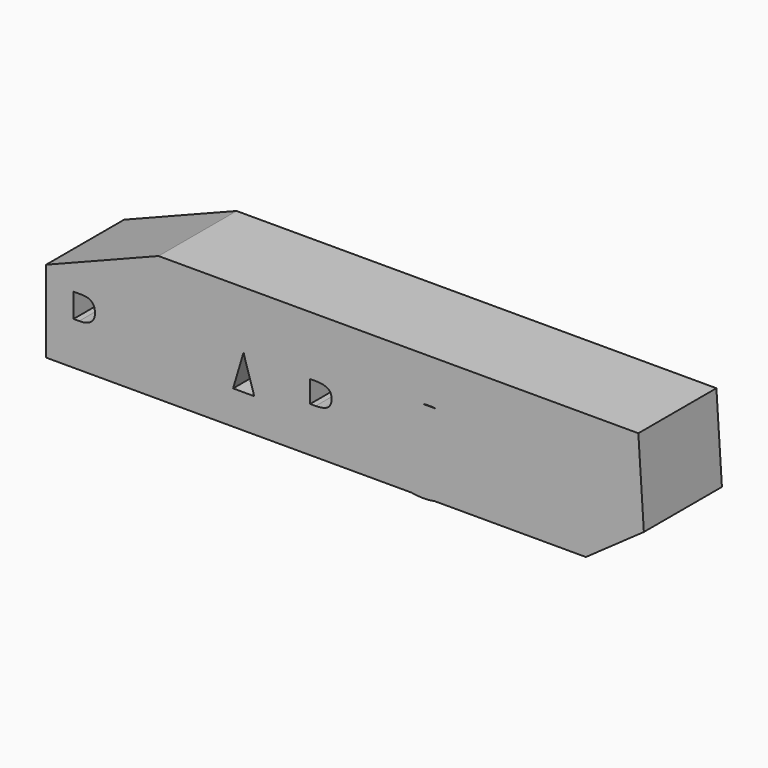
from build123d import *

# Parameters (mm, degrees)
F0_W     = 8.3609821595
F0_H     = 9.1143487112
F0_W_2   = 4.4786023839
F0_H_2   = 21.1173728506
F1_DEPTH = 25.4


with BuildPart() as f1:
    # F0 (on Front) → F1 (new body)
    with BuildSketch(Plane.XZ):
        with BuildLine():
            Line((-19.2826222628, 18.131762743), (-37.9903614521, 18.131762743))
            Line((-37.9903614521, 18.131762743), (-37.9903614521, -3.1658634543))
            Line((-37.9903614521, -3.1658634543), (-35.3327800581, -3.1658634543))
            Line((-35.3327800581, -3.1658634543), (-35.3327800581, 17.9515093963))
            Line((-35.3327800581, 17.9515093963), (-28.5894561384, 17.9515093963))
            add(Edge.make_bspline(
                [(-28.5894561384, 17.9515093963), (-24.7440514084, 17.9515093963), (-22.745088012, 16.296876111)],
                knots=[0, 0, 0, 1, 1, 1], degree=2))
            add(Edge.make_bspline(
                [(-22.745088012, 16.296876111), (-20.7461246157, 14.6422428257), (-20.7461246157, 11.3653294199)],
                knots=[0, 0, 0, 1, 1, 1], degree=2))
            add(Edge.make_bspline(
                [(-20.7461246157, 11.3653294199), (-20.7461246157, 7.9543814742), (-22.8768116115, 6.1495370667)],
                knots=[0, 0, 0, 1, 1, 1], degree=2))
            add(Edge.make_bspline(
                [(-22.8768116115, 6.1495370667), (-25.0074986074, 4.3446926591), (-28.9360971898, 4.3446926591)],
                knots=[0, 0, 0, 1, 1, 1], degree=2))
            Line((-28.9360971898, 4.3446926591), (-30.8541776742, 4.3446926591))
            Line((-30.8541776742, 4.3446926591), (-30.8541776742, -3.1658634543))
            Line((-30.8541776742, -3.1658634543), (-19.2826222628, -3.1658634543))
            Line((-19.2826222628, -3.1658634543), (-19.2826222628, 18.131762743))
        make_face()
        with BuildLine():
            Line((-8.7019680068, 29.6439938247), (-37.9903614521, 18.131762743))
            Line((-37.9903614521, 18.131762743), (-19.2826222628, 18.131762743))
            Line((-19.2826222628, 18.131762743), (2.0150034688, 18.131762743))
            Line((2.0150034688, 18.131762743), (24.7516594827, 18.131762743))
            Line((24.7516594827, 18.131762743), (44.3224497139, 18.131762743))
            Line((44.3224497139, 18.131762743), (52.0932041109, 18.131762743))
            Line((52.0932041109, 18.131762743), (59.9767177003, 18.131762743))
            add(Edge.make_bspline(
                [(59.9767177003, 18.131762743), (60.7857124915, 18.2519316408), (61.7036049274, 18.2519316408)],
                knots=[0.7260728655, 0.7260728655, 0.7260728655, 1, 1, 1], degree=2))
            add(Edge.make_bspline(
                [(61.7036049274, 18.2519316408), (62.6190151517, 18.2519316408), (63.4879314572, 18.131762743)],
                knots=[0, 0, 0, 0.5563486403, 0.5563486403, 0.5563486403], degree=2))
            Line((63.4879314572, 18.131762743), (69.9371621013, 18.131762743))
            Line((69.9371621013, 18.131762743), (86.3420888782, 18.131762743))
            Line((86.3420888782, 18.131762743), (102.5425426617, 18.131762743))
            Line((102.5425426617, 18.131762743), (116.2057295442, 29.6439938247))
            Line((116.2057295442, 29.6439938247), (84.2592939734, 29.6439938247))
            Line((84.2592939734, 29.6439938247), (-8.7019680068, 29.6439938247))
        make_face()
        Polygon((2.0150034688, 18.131762743), (-19.2826222628, 18.131762743), (-19.2826222628, -3.1658634543), (-16.7574415844, -3.1658634543), (-16.7574415844, 17.9515093963), (-12.2788392004, 17.9515093963), (-12.2788392004, 9.6737210891), (-3.9178570409, 9.6737210891), (-3.9178570409, 17.9515093963), (0.546879701, 17.9515093963), (0.546879701, -3.1658634543), (2.0150034688, -3.1658634543), align=None)
        with BuildLine():
            Line((-35.3327800581, 17.9515093963), (-35.3327800581, -3.1658634543))
            Line((-35.3327800581, -3.1658634543), (-30.8541776742, -3.1658634543))
            Line((-30.8541776742, -3.1658634543), (-30.8541776742, 4.3446926591))
            Line((-30.8541776742, 4.3446926591), (-28.9360971898, 4.3446926591))
            add(Edge.make_bspline(
                [(-22.8768116115, 6.1495370667), (-25.0074986074, 4.3446926591), (-28.9360971898, 4.3446926591)],
                knots=[0, 0, 0, 1, 1, 1], degree=2))
            add(Edge.make_bspline(
                [(-20.7461246157, 11.3653294199), (-20.7461246157, 7.9543814742), (-22.8768116115, 6.1495370667)],
                knots=[0, 0, 0, 1, 1, 1], degree=2))
            add(Edge.make_bspline(
                [(-22.745088012, 16.296876111), (-20.7461246157, 14.6422428257), (-20.7461246157, 11.3653294199)],
                knots=[0, 0, 0, 1, 1, 1], degree=2))
            add(Edge.make_bspline(
                [(-28.5894561384, 17.9515093963), (-24.7440514084, 17.9515093963), (-22.745088012, 16.296876111)],
                knots=[0, 0, 0, 1, 1, 1], degree=2))
            Line((-28.5894561384, 17.9515093963), (-35.3327800581, 17.9515093963))
        make_face()
        with BuildLine():
            Line((-29.3797977356, 8.0144659231), (-30.8541776742, 8.0144659231))
            Line((-30.8541776742, 8.0144659231), (-30.8541776742, 14.2817361322))
            Line((-30.8541776742, 14.2817361322), (-28.8205501727, 14.2817361322))
            add(Edge.make_bspline(
                [(-26.1259937332, 13.5306805209), (-26.9856635407, 14.2817361322), (-28.8205501727, 14.2817361322)],
                knots=[0, 0, 0, 1, 1, 1], degree=2))
            add(Edge.make_bspline(
                [(-25.2663239258, 11.2035635959), (-25.2663239258, 12.7796249096), (-26.1259937332, 13.5306805209)],
                knots=[0, 0, 0, 1, 1, 1], degree=2))
            add(Edge.make_bspline(
                [(-26.2923814379, 8.8302278641), (-25.2663239258, 9.645989805), (-25.2663239258, 11.2035635959)],
                knots=[0, 0, 0, 1, 1, 1], degree=2))
            add(Edge.make_bspline(
                [(-29.3797977356, 8.0144659231), (-27.31843895, 8.0144659231), (-26.2923814379, 8.8302278641)],
                knots=[0, 0, 0, 1, 1, 1], degree=2))
        make_face(mode=Mode.SUBTRACT)
        Polygon((24.7516594827, 18.131762743), (2.0150034688, 18.131762743), (2.0150034688, -3.1658634543), (3.218326737, -3.1658634543), (10.6734202822, 18.0393251293), (16.1457270135, 18.0393251293), (23.6285518428, -3.1658634543), (24.7516594827, -3.1658634543), align=None)
        Polygon((117.6447570324, 7.4829496443), (116.2057295442, 29.6439938247), (102.5425426617, 18.131762743), (102.5425426617, -3.1658634543), align=None)
        with BuildLine():
            Line((44.3224497139, 18.131762743), (24.7516594827, 18.131762743))
            Line((24.7516594827, 18.131762743), (24.7516594827, -3.1658634543))
            Line((24.7516594827, -3.1658634543), (26.2861332368, -3.1658634543))
            Line((26.2861332368, -3.1658634543), (26.2861332368, 17.9515093963))
            Line((26.2861332368, 17.9515093963), (32.4378564288, 17.9515093963))
            add(Edge.make_bspline(
                [(32.4378564288, 17.9515093963), (36.7454492274, 17.9515093963), (38.8091189533, 16.384691844)],
                knots=[0, 0, 0, 1, 1, 1], degree=2))
            add(Edge.make_bspline(
                [(38.8091189533, 16.384691844), (40.8727886792, 14.8178742917), (40.8727886792, 11.6241547383)],
                knots=[0, 0, 0, 1, 1, 1], degree=2))
            add(Edge.make_bspline(
                [(40.8727886792, 11.6241547383), (40.8727886792, 9.7615368221), (39.8490421075, 8.310266287)],
                knots=[0, 0, 0, 1, 1, 1], degree=2))
            add(Edge.make_bspline(
                [(39.8490421075, 8.310266287), (38.8252955357, 6.8589957518), (36.9441900968, 6.0363009899)],
                knots=[0, 0, 0, 1, 1, 1], degree=2))
            add(Edge.make_bspline(
                [(36.9441900968, 6.0363009899), (41.7139709639, -1.086017146), (43.1559977377, -3.1658634543)],
                knots=[0, 0, 0, 1, 1, 1], degree=2))
            Line((43.1559977377, -3.1658634543), (44.3224497139, -3.1658634543))
            Line((44.3224497139, -3.1658634543), (44.3224497139, 18.131762743))
        make_face()
        Polygon((-16.7574415844, 17.9515093963), (-16.7574415844, -3.1658634543), (-12.2788392004, -3.1658634543), (-12.2788392004, 5.9484852568), (-3.9178570409, 5.9484852568), (-3.9178570409, -3.1658634543), (0.546879701, -3.1658634543), (0.546879701, 17.9515093963), (-3.9178570409, 17.9515093963), (-3.9178570409, 9.6737210891), (-12.2788392004, 9.6737210891), (-12.2788392004, 17.9515093963), align=None)
        Polygon((102.5425426617, -3.1658634543), (102.5425426617, 18.131762743), (86.3420888782, 18.131762743), (86.3420888782, -3.1658634543), (88.4642940946, -3.1658634543), (88.4642940946, 17.9515093963), (100.6244621773, 17.9515093963), (100.6244621773, 14.2817361322), (92.9428964785, 14.2817361322), (92.9428964785, 9.645989805), (100.0929458985, 9.645989805), (100.0929458985, 5.976216541), (92.9428964785, 5.976216541), (92.9428964785, 0.5316410938), (100.6244621773, 0.5316410938), (100.6244621773, -3.1658634543), align=None)
        Polygon((52.0932041109, 18.131762743), (44.3224497139, 18.131762743), (44.3224497139, -3.1658634543), (45.8135791317, -3.1658634543), (45.8135791317, 17.9515093963), (50.2921815156, 17.9515093963), (50.2921815156, -3.1658634543), (52.0932041109, -3.1658634543), align=None)
        Polygon((10.6734202822, 18.0393251293), (3.218326737, -3.1658634543), (8.0435701724, -3.1658634543), (9.5734126791, 1.8627427311), (17.2734659007, 1.8627427311), (18.8033084075, -3.1658634543), (23.6285518428, -3.1658634543), (16.1457270135, 18.0393251293), align=None)
        with BuildLine():
            add(Edge.make_bspline(
                [(16.2011895817, 5.6157098475), (14.0797463472, 12.4468495002), (13.8116772675, 13.3434943531)],
                knots=[0, 0, 0, 1, 1, 1], degree=2))
            Line((16.2011895817, 5.6157098475), (10.7011515663, 5.6157098475))
            add(Edge.make_bspline(
                [(13.4280611706, 14.7577898428), (12.95200746, 12.9090375687), (10.7011515663, 5.6157098475)],
                knots=[0, 0, 0, 1, 1, 1], degree=2))
            add(Edge.make_bspline(
                [(13.8116772675, 13.3434943531), (13.5436081877, 14.2401392061), (13.4280611706, 14.7577898428)],
                knots=[0, 0, 0, 1, 1, 1], degree=2))
        make_face(mode=Mode.SUBTRACT)
        with Locations((-8.0983481207, 1.3913109013)):
            Rectangle(F0_W, F0_H)
        Polygon((86.3420888782, -3.1658634543), (86.3420888782, 18.131762743), (69.9371621013, 18.131762743), (69.9371621013, -3.1658634543), (71.8994737189, -3.1658634543), (71.8994737189, 17.9515093963), (84.0596418016, 17.9515093963), (84.0596418016, 14.2817361322), (76.3780761028, 14.2817361322), (76.3780761028, 9.645989805), (83.5281255228, 9.645989805), (83.5281255228, 5.976216541), (76.3780761028, 5.976216541), (76.3780761028, 0.5316410938), (84.0596418016, 0.5316410938), (84.0596418016, -3.1658634543), align=None)
        with BuildLine():
            Line((59.9767177003, 18.131762743), (52.0932041109, 18.131762743))
            Line((52.0932041109, 18.131762743), (52.0932041109, -3.1658634543))
            Line((52.0932041109, -3.1658634543), (57.2358830465, -3.1658634543))
            add(Edge.make_bspline(
                [(57.2358830465, -3.1658634543), (55.6650956404, -2.8475842694), (54.3085958311, -2.1814028684)],
                knots=[0.477766543, 0.477766543, 0.477766543, 1, 1, 1], degree=2))
            Line((54.3085958311, -2.1814028684), (54.3085958311, 1.9782897483))
            add(Edge.make_bspline(
                [(54.3085958311, 1.9782897483), (56.4439047076, 1.0215604464), (57.9252174672, 0.6333224689)],
                knots=[0, 0, 0, 1, 1, 1], degree=2))
            add(Edge.make_bspline(
                [(57.9252174672, 0.6333224689), (59.4065302268, 0.2450844913), (60.6359504891, 0.2450844913)],
                knots=[0, 0, 0, 1, 1, 1], degree=2))
            add(Edge.make_bspline(
                [(60.6359504891, 0.2450844913), (62.105708547, 0.2450844913), (62.8937392038, 0.8066429946)],
                knots=[0, 0, 0, 1, 1, 1], degree=2))
            add(Edge.make_bspline(
                [(62.8937392038, 0.8066429946), (63.6817698606, 1.3682014978), (63.6817698606, 2.482074743)],
                knots=[0, 0, 0, 1, 1, 1], degree=2))
            add(Edge.make_bspline(
                [(63.6817698606, 2.482074743), (63.6817698606, 3.1014067548), (63.3351288092, 3.5867042267)],
                knots=[0, 0, 0, 1, 1, 1], degree=2))
            add(Edge.make_bspline(
                [(63.3351288092, 3.5867042267), (62.9884877578, 4.0720016987), (62.3160041182, 4.5180131848)],
                knots=[0, 0, 0, 1, 1, 1], degree=2))
            add(Edge.make_bspline(
                [(62.3160041182, 4.5180131848), (61.6435204785, 4.9640246709), (59.5775398122, 5.9484852568)],
                knots=[0, 0, 0, 1, 1, 1], degree=2))
            add(Edge.make_bspline(
                [(59.5775398122, 5.9484852568), (57.6455936858, 6.8589957518), (56.6773096822, 7.6955561558)],
                knots=[0, 0, 0, 1, 1, 1], degree=2))
            add(Edge.make_bspline(
                [(56.6773096822, 7.6955561558), (55.7090256787, 8.5321165599), (55.131290593, 9.645989805)],
                knots=[0, 0, 0, 1, 1, 1], degree=2))
            add(Edge.make_bspline(
                [(55.131290593, 9.645989805), (54.5535555074, 10.7598630501), (54.5535555074, 12.2434867501)],
                knots=[0, 0, 0, 1, 1, 1], degree=2))
            add(Edge.make_bspline(
                [(54.5535555074, 12.2434867501), (54.5535555074, 15.048968326), (56.453148469, 16.6504499834)],
                knots=[0, 0, 0, 1, 1, 1], degree=2))
            add(Edge.make_bspline(
                [(56.453148469, 16.6504499834), (57.8323913738, 17.8132423594), (59.9767177003, 18.131762743)],
                knots=[0, 0, 0, 0.7260728655, 0.7260728655, 0.7260728655], degree=2))
        make_face()
        with BuildLine():
            Line((26.2861332368, 17.9515093963), (26.2861332368, -3.1658634543))
            Line((26.2861332368, -3.1658634543), (30.7647356207, -3.1658634543))
            Line((30.7647356207, -3.1658634543), (30.7647356207, 4.9362933868))
            Line((30.7647356207, 4.9362933868), (33.1450041736, 4.9362933868))
            Line((33.1450041736, 4.9362933868), (38.1874760011, -3.1658634543))
            Line((38.1874760011, -3.1658634543), (43.1559977377, -3.1658634543))
            add(Edge.make_bspline(
                [(36.9441900968, 6.0363009899), (41.7139709639, -1.086017146), (43.1559977377, -3.1658634543)],
                knots=[0, 0, 0, 1, 1, 1], degree=2))
            add(Edge.make_bspline(
                [(39.8490421075, 8.310266287), (38.8252955357, 6.8589957518), (36.9441900968, 6.0363009899)],
                knots=[0, 0, 0, 1, 1, 1], degree=2))
            add(Edge.make_bspline(
                [(40.8727886792, 11.6241547383), (40.8727886792, 9.7615368221), (39.8490421075, 8.310266287)],
                knots=[0, 0, 0, 1, 1, 1], degree=2))
            add(Edge.make_bspline(
                [(38.8091189533, 16.384691844), (40.8727886792, 14.8178742917), (40.8727886792, 11.6241547383)],
                knots=[0, 0, 0, 1, 1, 1], degree=2))
            add(Edge.make_bspline(
                [(32.4378564288, 17.9515093963), (36.7454492274, 17.9515093963), (38.8091189533, 16.384691844)],
                knots=[0, 0, 0, 1, 1, 1], degree=2))
            Line((32.4378564288, 17.9515093963), (26.2861332368, 17.9515093963))
        make_face()
        with BuildLine():
            Line((32.2067623945, 8.5783353667), (30.7647356207, 8.5783353667))
            Line((30.7647356207, 8.5783353667), (30.7647356207, 14.2817361322))
            Line((30.7647356207, 14.2817361322), (32.1235685422, 14.2817361322))
            add(Edge.make_bspline(
                [(35.319599036, 13.646227538), (34.2866087028, 14.2817361322), (32.1235685422, 14.2817361322)],
                knots=[0, 0, 0, 1, 1, 1], degree=2))
            add(Edge.make_bspline(
                [(36.3525893691, 11.5086077211), (36.3525893691, 13.0107189438), (35.319599036, 13.646227538)],
                knots=[0, 0, 0, 1, 1, 1], degree=2))
            add(Edge.make_bspline(
                [(35.3427084394, 9.2854831115), (36.3525893691, 9.9926308564), (36.3525893691, 11.5086077211)],
                knots=[0, 0, 0, 1, 1, 1], degree=2))
            add(Edge.make_bspline(
                [(32.2067623945, 8.5783353667), (34.3328275097, 8.5783353667), (35.3427084394, 9.2854831115)],
                knots=[0, 0, 0, 1, 1, 1], degree=2))
        make_face(mode=Mode.SUBTRACT)
        Polygon((9.5734126791, 1.8627427311), (8.0435701724, -3.1658634543), (18.8033084075, -3.1658634543), (17.2734659007, 1.8627427311), align=None)
        Polygon((88.4642940946, -3.1658634543), (100.6244621773, -3.1658634543), (100.6244621773, 0.5316410938), (92.9428964785, 0.5316410938), (92.9428964785, 5.976216541), (100.0929458985, 5.976216541), (100.0929458985, 9.645989805), (92.9428964785, 9.645989805), (92.9428964785, 14.2817361322), (100.6244621773, 14.2817361322), (100.6244621773, 17.9515093963), (88.4642940946, 17.9515093963), align=None)
        with BuildLine():
            Line((69.9371621013, -3.1658634543), (69.9371621013, 18.131762743))
            Line((69.9371621013, 18.131762743), (63.4879314572, 18.131762743))
            add(Edge.make_bspline(
                [(63.4879314572, 18.131762743), (64.180834922, 18.0359359699), (64.8441728529, 17.8636936633)],
                knots=[0.5563486403, 0.5563486403, 0.5563486403, 1, 1, 1], degree=2))
            add(Edge.make_bspline(
                [(64.8441728529, 17.8636936633), (66.3393512546, 17.4754556857), (67.9708751365, 16.7683079409)],
                knots=[0, 0, 0, 1, 1, 1], degree=2))
            Line((67.9708751365, 16.7683079409), (66.5288483627, 13.2834099042))
            add(Edge.make_bspline(
                [(66.5288483627, 13.2834099042), (64.8372400319, 13.976692007), (63.7326105482, 14.2516939078)],
                knots=[0, 0, 0, 1, 1, 1], degree=2))
            add(Edge.make_bspline(
                [(63.7326105482, 14.2516939078), (62.6279810644, 14.5266958086), (61.5603266261, 14.5266958086)],
                knots=[0, 0, 0, 1, 1, 1], degree=2))
            add(Edge.make_bspline(
                [(61.5603266261, 14.5266958086), (60.2893094377, 14.5266958086), (59.609892977, 13.9350950808)],
                knots=[0, 0, 0, 1, 1, 1], degree=2))
            add(Edge.make_bspline(
                [(59.609892977, 13.9350950808), (58.9304765163, 13.3434943531), (58.9304765163, 12.391386932)],
                knots=[0, 0, 0, 1, 1, 1], degree=2))
            add(Edge.make_bspline(
                [(58.9304765163, 12.391386932), (58.9304765163, 11.7997862043), (59.205478417, 11.3583965989)],
                knots=[0, 0, 0, 1, 1, 1], degree=2))
            add(Edge.make_bspline(
                [(59.205478417, 11.3583965989), (59.4804803178, 10.9170069934), (60.0790138665, 10.5056596124)],
                knots=[0, 0, 0, 1, 1, 1], degree=2))
            add(Edge.make_bspline(
                [(60.0790138665, 10.5056596124), (60.6775474153, 10.0943122315), (62.9145376669, 9.0266577932)],
                knots=[0, 0, 0, 1, 1, 1], degree=2))
            add(Edge.make_bspline(
                [(62.9145376669, 9.0266577932), (65.8771631861, 7.6077404228), (66.9748598488, 6.1865121121)],
                knots=[0, 0, 0, 1, 1, 1], degree=2))
            add(Edge.make_bspline(
                [(66.9748598488, 6.1865121121), (68.0725565116, 4.7652838014), (68.0725565116, 2.6993031352)],
                knots=[0, 0, 0, 1, 1, 1], degree=2))
            add(Edge.make_bspline(
                [(68.0725565116, 2.6993031352), (68.0725565116, -0.161641009), (66.0135086663, -1.8093414732)],
                knots=[0, 0, 0, 1, 1, 1], degree=2))
            add(Edge.make_bspline(
                [(66.0135086663, -1.8093414732), (64.8200402885, -2.7643840697), (63.0869836467, -3.1658634543)],
                knots=[0, 0, 0, 0.5796214889, 0.5796214889, 0.5796214889], degree=2))
            Line((63.0869836467, -3.1658634543), (69.9371621013, -3.1658634543))
        make_face()
        with BuildLine():
            Line((63.4879314572, 18.131762743), (59.9767177003, 18.131762743))
            add(Edge.make_bspline(
                [(56.453148469, 16.6504499834), (57.8323913738, 17.8132423594), (59.9767177003, 18.131762743)],
                knots=[0, 0, 0, 0.7260728655, 0.7260728655, 0.7260728655], degree=2))
            add(Edge.make_bspline(
                [(54.5535555074, 12.2434867501), (54.5535555074, 15.048968326), (56.453148469, 16.6504499834)],
                knots=[0, 0, 0, 1, 1, 1], degree=2))
            add(Edge.make_bspline(
                [(55.131290593, 9.645989805), (54.5535555074, 10.7598630501), (54.5535555074, 12.2434867501)],
                knots=[0, 0, 0, 1, 1, 1], degree=2))
            add(Edge.make_bspline(
                [(56.6773096822, 7.6955561558), (55.7090256787, 8.5321165599), (55.131290593, 9.645989805)],
                knots=[0, 0, 0, 1, 1, 1], degree=2))
            add(Edge.make_bspline(
                [(59.5775398122, 5.9484852568), (57.6455936858, 6.8589957518), (56.6773096822, 7.6955561558)],
                knots=[0, 0, 0, 1, 1, 1], degree=2))
            add(Edge.make_bspline(
                [(62.3160041182, 4.5180131848), (61.6435204785, 4.9640246709), (59.5775398122, 5.9484852568)],
                knots=[0, 0, 0, 1, 1, 1], degree=2))
            add(Edge.make_bspline(
                [(63.3351288092, 3.5867042267), (62.9884877578, 4.0720016987), (62.3160041182, 4.5180131848)],
                knots=[0, 0, 0, 1, 1, 1], degree=2))
            add(Edge.make_bspline(
                [(63.6817698606, 2.482074743), (63.6817698606, 3.1014067548), (63.3351288092, 3.5867042267)],
                knots=[0, 0, 0, 1, 1, 1], degree=2))
            add(Edge.make_bspline(
                [(62.8937392038, 0.8066429946), (63.6817698606, 1.3682014978), (63.6817698606, 2.482074743)],
                knots=[0, 0, 0, 1, 1, 1], degree=2))
            add(Edge.make_bspline(
                [(60.6359504891, 0.2450844913), (62.105708547, 0.2450844913), (62.8937392038, 0.8066429946)],
                knots=[0, 0, 0, 1, 1, 1], degree=2))
            add(Edge.make_bspline(
                [(57.9252174672, 0.6333224689), (59.4065302268, 0.2450844913), (60.6359504891, 0.2450844913)],
                knots=[0, 0, 0, 1, 1, 1], degree=2))
            add(Edge.make_bspline(
                [(54.3085958311, 1.9782897483), (56.4439047076, 1.0215604464), (57.9252174672, 0.6333224689)],
                knots=[0, 0, 0, 1, 1, 1], degree=2))
            Line((54.3085958311, 1.9782897483), (54.3085958311, -2.1814028684))
            add(Edge.make_bspline(
                [(57.2358830465, -3.1658634543), (55.6650956404, -2.8475842694), (54.3085958311, -2.1814028684)],
                knots=[0.477766543, 0.477766543, 0.477766543, 1, 1, 1], degree=2))
            Line((57.2358830465, -3.1658634543), (63.0869836467, -3.1658634543))
            add(Edge.make_bspline(
                [(66.0135086663, -1.8093414732), (64.8200402885, -2.7643840697), (63.0869836467, -3.1658634543)],
                knots=[0, 0, 0, 0.5796214889, 0.5796214889, 0.5796214889], degree=2))
            add(Edge.make_bspline(
                [(68.0725565116, 2.6993031352), (68.0725565116, -0.161641009), (66.0135086663, -1.8093414732)],
                knots=[0, 0, 0, 1, 1, 1], degree=2))
            add(Edge.make_bspline(
                [(66.9748598488, 6.1865121121), (68.0725565116, 4.7652838014), (68.0725565116, 2.6993031352)],
                knots=[0, 0, 0, 1, 1, 1], degree=2))
            add(Edge.make_bspline(
                [(62.9145376669, 9.0266577932), (65.8771631861, 7.6077404228), (66.9748598488, 6.1865121121)],
                knots=[0, 0, 0, 1, 1, 1], degree=2))
            add(Edge.make_bspline(
                [(60.0790138665, 10.5056596124), (60.6775474153, 10.0943122315), (62.9145376669, 9.0266577932)],
                knots=[0, 0, 0, 1, 1, 1], degree=2))
            add(Edge.make_bspline(
                [(59.205478417, 11.3583965989), (59.4804803178, 10.9170069934), (60.0790138665, 10.5056596124)],
                knots=[0, 0, 0, 1, 1, 1], degree=2))
            add(Edge.make_bspline(
                [(58.9304765163, 12.391386932), (58.9304765163, 11.7997862043), (59.205478417, 11.3583965989)],
                knots=[0, 0, 0, 1, 1, 1], degree=2))
            add(Edge.make_bspline(
                [(59.609892977, 13.9350950808), (58.9304765163, 13.3434943531), (58.9304765163, 12.391386932)],
                knots=[0, 0, 0, 1, 1, 1], degree=2))
            add(Edge.make_bspline(
                [(61.5603266261, 14.5266958086), (60.2893094377, 14.5266958086), (59.609892977, 13.9350950808)],
                knots=[0, 0, 0, 1, 1, 1], degree=2))
            add(Edge.make_bspline(
                [(63.7326105482, 14.2516939078), (62.6279810644, 14.5266958086), (61.5603266261, 14.5266958086)],
                knots=[0, 0, 0, 1, 1, 1], degree=2))
            add(Edge.make_bspline(
                [(66.5288483627, 13.2834099042), (64.8372400319, 13.976692007), (63.7326105482, 14.2516939078)],
                knots=[0, 0, 0, 1, 1, 1], degree=2))
            Line((66.5288483627, 13.2834099042), (67.9708751365, 16.7683079409))
            add(Edge.make_bspline(
                [(64.8441728529, 17.8636936633), (66.3393512546, 17.4754556857), (67.9708751365, 16.7683079409)],
                knots=[0, 0, 0, 1, 1, 1], degree=2))
            add(Edge.make_bspline(
                [(63.4879314572, 18.131762743), (64.180834922, 18.0359359699), (64.8441728529, 17.8636936633)],
                knots=[0.5563486403, 0.5563486403, 0.5563486403, 1, 1, 1], degree=2))
        make_face()
        with Locations((48.0528803237, 7.392822971)):
            Rectangle(F0_W_2, F0_H_2)
        Polygon((30.7647356207, 4.9362933868), (30.7647356207, -3.1658634543), (38.1874760011, -3.1658634543), (33.1450041736, 4.9362933868), align=None)
        Polygon((71.8994737189, -3.1658634543), (84.0596418016, -3.1658634543), (84.0596418016, 0.5316410938), (76.3780761028, 0.5316410938), (76.3780761028, 5.976216541), (83.5281255228, 5.976216541), (83.5281255228, 9.645989805), (76.3780761028, 9.645989805), (76.3780761028, 14.2817361322), (84.0596418016, 14.2817361322), (84.0596418016, 17.9515093963), (71.8994737189, 17.9515093963), align=None)
        with BuildLine():
            Line((63.0869836467, -3.1658634543), (57.2358830465, -3.1658634543))
            add(Edge.make_bspline(
                [(60.2893094377, -3.4570419375), (58.6729217092, -3.4570419375), (57.2358830465, -3.1658634543)],
                knots=[0, 0, 0, 0.477766543, 0.477766543, 0.477766543], degree=2))
            add(Edge.make_bspline(
                [(63.0869836467, -3.1658634543), (61.8300603191, -3.4570419375), (60.2893094377, -3.4570419375)],
                knots=[0.5796214889, 0.5796214889, 0.5796214889, 1, 1, 1], degree=2))
        make_face()
    extrude(amount=F1_DEPTH)


solid = f1.part
